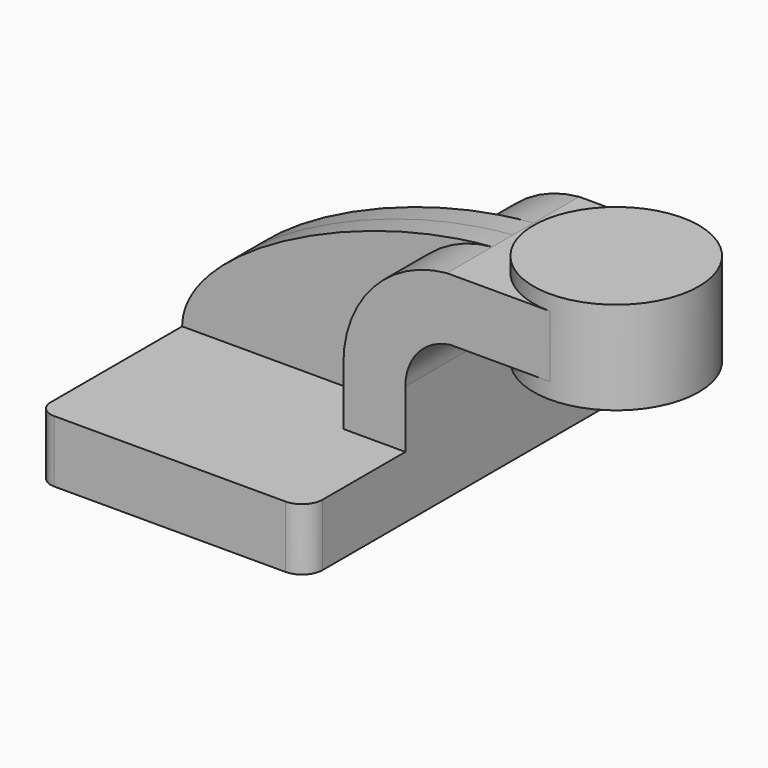
from build123d import *

# Parameters (mm, degrees)
F1_DEPTH = 63.5
F2_DEPTH = 25.4
F3_DEPTH = 7.9375
F0_W     = 25.4
F0_H     = 19.05
F4_DEPTH = 25.4
F6_R     = 6.35
F7_R     = 5.08


with BuildPart() as f1:
    # F0 (on Front) → F1 (new body, symmetric)
    with BuildSketch(Plane.XZ):
        Polygon((-41.275, -9.525), (41.275, -9.525), (41.275, 9.525), (22.225, 9.525), (-41.275, 9.525), align=None)
    extrude(amount=F1_DEPTH, both=True)

    # F0 (on Front) → F2 (join, symmetric)
    with BuildSketch(Plane.XZ):
        with BuildLine():
            Line((22.225, 9.525), (41.275, 9.525))
            Line((41.275, 9.525), (41.275, 27.2360957886))
            ThreePointArc((41.275, 27.2360957886), (45.2008293129, 37.6875523804), (55.0366308524, 42.969795158))
            Line((55.0366308524, 42.969795158), (60.325, 42.969795158))
            Line((60.325, 42.969795158), (60.325, 62.019795158))
            Line((60.325, 62.019795158), (54.0115476456, 62.019795158))
            ThreePointArc((54.0115476456, 62.019795158), (31.3685524701, 50.7960743171), (22.225, 27.2360957886))
            Line((22.225, 27.2360957886), (22.225, 9.525))
        make_face()
    extrude(amount=F2_DEPTH, both=True)

    # F0 (on Front) → F3 (join, symmetric)
    with BuildSketch(Plane.XZ):
        with BuildLine():
            add(Edge.make_bspline(
                [(-41.275, 9.525), (-41.0820953602, 32.033355115), (11.1667468817, 58.7405619522), (54.0115476456, 62.019795158)],
                knots=[0, 0, 0, 0, 108.7898418094, 108.7898418094, 108.7898418094, 108.7898418094], degree=3))
            Line((-41.275, 9.525), (22.225, 9.525))
            Line((22.225, 9.525), (22.225, 27.2360957886))
            ThreePointArc((22.225, 27.2360957886), (31.3685524701, 50.7960743171), (54.0115476456, 62.019795158))
        make_face()
    extrude(amount=F3_DEPTH, both=True)

    # F0 (on Front) → F4 (join, symmetric)
    with BuildSketch(Plane.XZ):
        with Locations((73.025, 52.494795158)):
            Rectangle(F0_W, F0_H)
    extrude(amount=F4_DEPTH, both=True)

    # F0 (on Front) → F5 (revolve)
    with BuildSketch(Plane.XZ):
        Polygon((85.725, 66.675), (85.725, 62.019795158), (85.725, 42.969795158), (85.725, 38.1), (111.125, 38.1), (111.125, 66.675), align=None)
    revolve(axis=Axis((85.725, 0, 52.3875), (0, 0, 1)))

    # F6
    f6_edges = [f1.edges().sort_by_distance(p)[0] for p in [
        (41.275, 63.5, 0),
        (-41.275, 63.5, 0),
        (41.275, -63.5, 0),
    ]]
    fillet(f6_edges, radius=F6_R)

    # F7
    f7_edges = [f1.edges().sort_by_distance(p)[0] for p in [
        (-41.275, -63.5, 0),
    ]]
    fillet(f7_edges, radius=F7_R)


solid = f1.part
